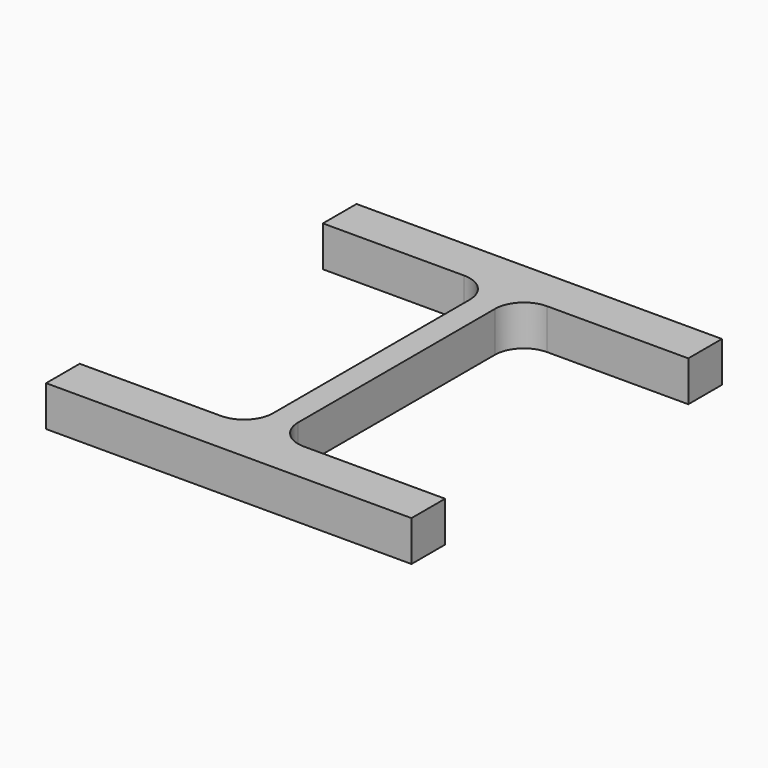
from build123d import *

# Parameters (mm, degrees)
F1_DEPTH = 25


with BuildPart() as f1:
    # F0 (on Top) → F1 (new body)
    with BuildSketch(Plane.XY):
        with BuildLine():
            ThreePointArc((27.813243, 193.999363), (40.541165, 188.727285), (45.813243, 175.999363))
            Line((45.813243, 175.999363), (45.813243, 23.999363))
            ThreePointArc((45.813243, 23.999363), (40.541165, 11.271441), (27.813243, 5.999363))
            Line((27.813243, 5.999363), (-59.436757, 5.999363))
            Line((-59.436757, 5.999363), (-59.436757, -20.000637))
            Line((-59.436757, -20.000637), (166.563243, -20.000637))
            Line((166.563243, -20.000637), (166.563243, 5.999363))
            Line((166.563243, 5.999363), (79.313243, 5.999363))
            ThreePointArc((79.313243, 5.999363), (66.585321, 11.271441), (61.313243, 23.999363))
            Line((61.313243, 23.999363), (61.313243, 175.999363))
            ThreePointArc((61.313243, 175.999363), (66.585321, 188.727285), (79.313243, 193.999363))
            Line((79.313243, 193.999363), (166.563243, 193.999363))
            Line((166.563243, 193.999363), (166.563243, 219.999363))
            Line((166.563243, 219.999363), (-59.436757, 219.999363))
            Line((-59.436757, 219.999363), (-59.436757, 193.999363))
            Line((-59.436757, 193.999363), (27.813243, 193.999363))
        make_face()
    extrude(amount=F1_DEPTH)


solid = f1.part
